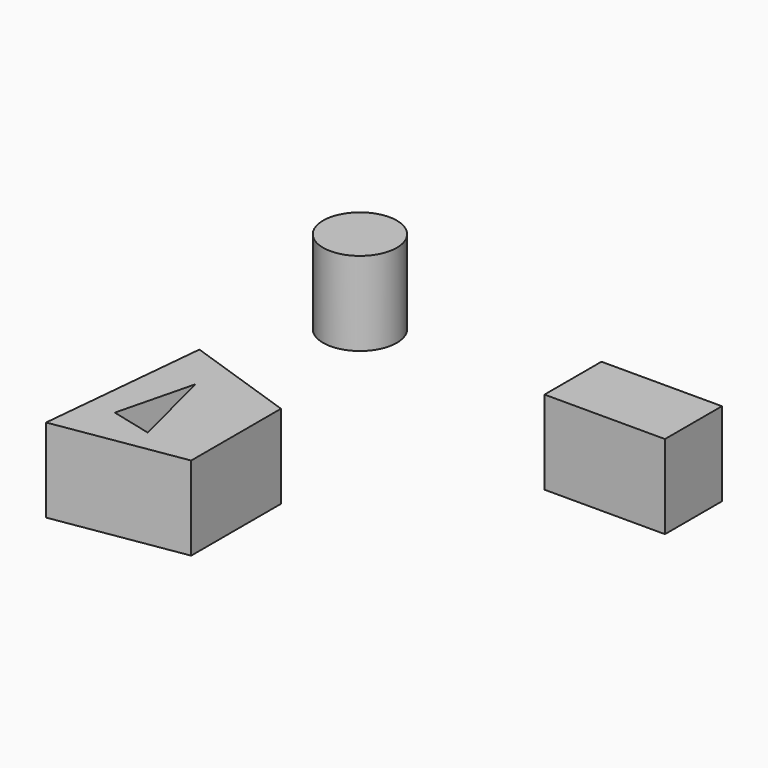
from build123d import *

# Parameters (mm, degrees)
F1_DEPTH = 25.4
F0_R     = 11.179722
F2_DEPTH = 25.4
F0_W     = 36.537992
F0_H     = 21.590633
F3_DEPTH = 25.4


with BuildPart() as f1:
    # F0 (on Top) → F1 (new body)
    with BuildSketch(Plane.XY):
        Polygon((-20.952431, -29.079724), (-54.999199, -17.453996), (-59.981655, -69.354557), (-20.952431, -63.12649), align=None)
        Polygon((-50.431952, -55.237599), (-44.619087, -31.986151), (-37.92697, -58.363846), align=None, mode=Mode.SUBTRACT)
    extrude(amount=F1_DEPTH)


with BuildPart() as f2:
    # F0 (on Top) → F2 (new body)
    with BuildSketch(Plane.XY):
        with Locations((-62.280677, 52.52336)):
            Circle(F0_R)
    extrude(amount=F2_DEPTH)


with BuildPart() as f3:
    # F0 (on Top) → F3 (new body)
    with BuildSketch(Plane.XY):
        with Locations((41.520446, 26.365479)):
            Rectangle(F0_W, F0_H)
    extrude(amount=F3_DEPTH)


solid = Compound([f1.part, f2.part, f3.part])
